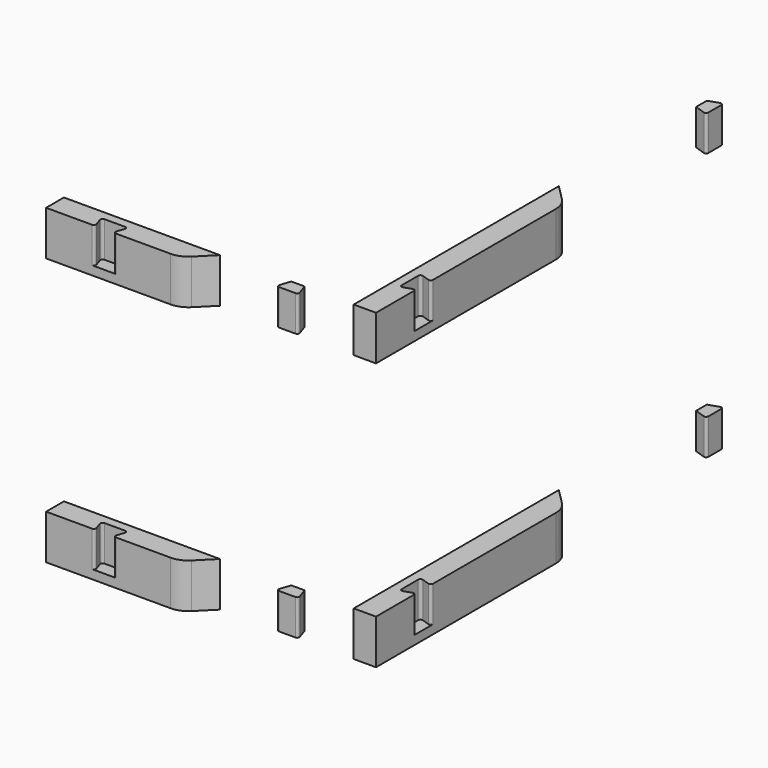
from build123d import *

# Parameters (mm, degrees)
PAD001_DEPTH = 10
PAD_DEPTH    = 10
FILLET_R     = 0.5
FILLET001_R  = 5
PAD002_DEPTH = 8
FILLET002_R  = 0.5
PAD005_DEPTH = 8
FILLET005_R  = 0.5
PAD004_DEPTH = 10
PAD003_DEPTH = 10
FILLET003_R  = 0.5
FILLET004_R  = 5


with BuildPart() as pad001:
    # Sketch001 → Pad001 (new body)
    with BuildSketch(Plane.XY.offset(2)):
        Polygon((2, 10.282114), (5, 11.282114), (5, 15.282114), (2, 16.282114), align=None)
    extrude(amount=PAD001_DEPTH)


with BuildPart() as fillet001:
    # Sketch → Pad (new body)
    with BuildSketch(Plane.XY):
        Polygon((0, 0), (5, 0), (5, 52.5), (0, 57.5), align=None)
    extrude(amount=PAD_DEPTH)

    # Cut: cut Pad001
    add(pad001.part, mode=Mode.SUBTRACT)

    # Fillet
    fillet_edges = [fillet001.edges().sort_by_distance(p)[0] for p in [
        (5, 15.282114, 6),
        (2, 16.282114, 6),
        (2, 10.282114, 6),
        (5, 11.282114, 6),
    ]]
    fillet(fillet_edges, radius=FILLET_R)

    # Fillet001
    fillet001_edges = [fillet001.edges().sort_by_distance(p)[0] for p in [
        (5, 52.5, 5),
    ]]
    fillet(fillet001_edges, radius=FILLET001_R)


with BuildPart() as fusion:
    # Sketch002 → Pad002 (new body)
    with BuildSketch(Plane.XY.offset(2)):
        Polygon((0, 99), (3, 100), (3, 95), (0, 96), align=None)
    extrude(amount=PAD002_DEPTH)

    # Fillet002
    fillet002_edges = [fusion.edges().sort_by_distance(p)[0] for p in [
        (3, 100, 6),
        (3, 95, 6),
    ]]
    fillet(fillet002_edges, radius=FILLET002_R)

    # Fusion: union Fillet001
    add(fillet001.part)


with BuildPart() as obj1:
    # Clone base: copy of Fusion
    add(fusion.part)


with BuildPart() as obj1_1:
    # Clone placement: moved
    add(obj1.part.moved(Location((0, 0, 60))))

    # Fusion001: union Fusion
    add(fusion.part)


with BuildPart() as fillet005:
    # Sketch005 → Pad005 (new body)
    with BuildSketch(Plane.XY.offset(2)):
        Polygon((-11, 0), (-10, -3), (-15, -3), (-14, 0), align=None)
    extrude(amount=PAD005_DEPTH)

    # Fillet005
    fillet005_edges = [fillet005.edges().sort_by_distance(p)[0] for p in [
        (-10, -3, 6),
        (-15, -3, 6),
    ]]
    fillet(fillet005_edges, radius=FILLET005_R)


with BuildPart() as pad004:
    # Sketch004 → Pad004 (new body)
    with BuildSketch(Plane.XY.offset(2)):
        Polygon((-54, -5), (-55, -2), (-49, -2), (-50, -5), align=None)
    extrude(amount=PAD004_DEPTH)


with BuildPart() as fusion002:
    # Sketch003 → Pad003 (new body)
    with BuildSketch(Plane.XY):
        Polygon((-65, 0), (-30, 0), (-35, -5), (-65, -5), align=None)
    extrude(amount=PAD003_DEPTH)

    # Cut001: cut Pad004
    add(pad004.part, mode=Mode.SUBTRACT)

    # Fillet003
    fillet003_edges = [fusion002.edges().sort_by_distance(p)[0] for p in [
        (-50, -5, 6),
        (-49, -2, 6),
        (-55, -2, 6),
        (-54, -5, 6),
    ]]
    fillet(fillet003_edges, radius=FILLET003_R)

    # Fillet004
    fillet004_edges = [fusion002.edges().sort_by_distance(p)[0] for p in [
        (-35, -5, 5),
    ]]
    fillet(fillet004_edges, radius=FILLET004_R)

    # Fusion002: union Fillet005
    add(fillet005.part)


with BuildPart() as obj2:
    # Clone001 base: copy of Fusion002
    add(fusion002.part)


with BuildPart() as obj2_1:
    # Clone001 placement: moved
    add(obj2.part.moved(Location((0, 0, 60))))

    # Fusion003: union Fusion002
    add(fusion002.part)


solid = Compound([obj1_1.part, obj2_1.part])
